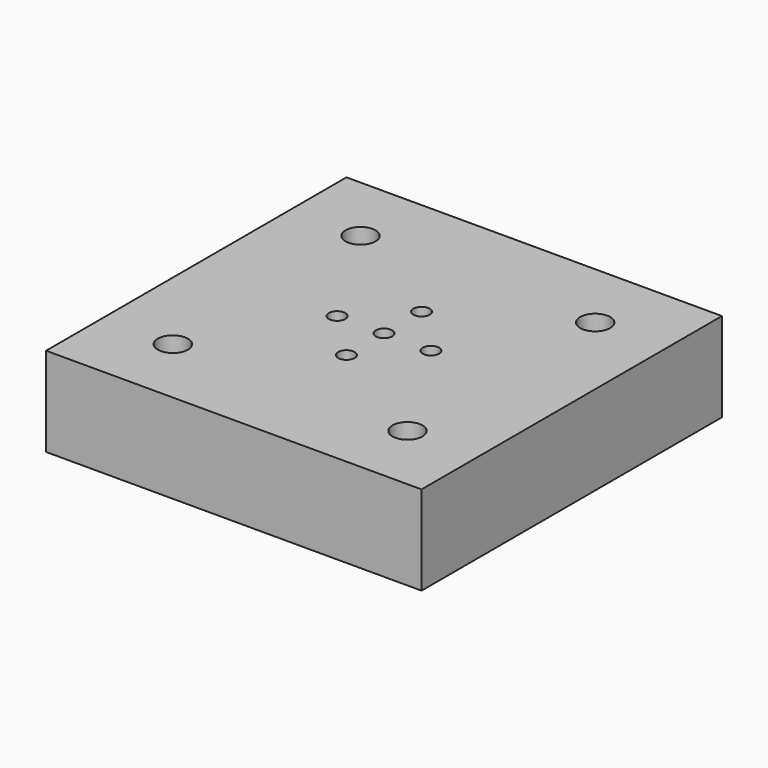
from build123d import *

# Parameters (mm, degrees)
F0_W           = 400
F0_H           = 400
F1_DEPTH       = 95
F3_D           = 17.5
F3_CBORE_D     = 26
F3_CBORE_DEPTH = 17
F5_D           = 21.5
F5_CBORE_D     = 32
F5_CBORE_DEPTH = 21


with BuildPart() as f1:
    # F0 (on Top) → F1 (new body)
    with BuildSketch(Plane.XY):
        Rectangle(F0_W, F0_H)
    extrude(amount=F1_DEPTH)

    # F3 (through all)
    with Locations(Plane(origin=(0, 0, 0), x_dir=(1, 0, 0), z_dir=(0, 0, -1))):
        with Locations((0, 0), (0, 50), (-50, 0), (0, -50), (50, 0)):
            CounterBoreHole(F3_D / 2, F3_CBORE_D / 2, F3_CBORE_DEPTH)

    # F5 (through all)
    with Locations(Plane.XY.offset(95)):
        with Locations((-125, 125), (125, 125), (-125, -125), (125, -125)):
            CounterBoreHole(F5_D / 2, F5_CBORE_D / 2, F5_CBORE_DEPTH)


solid = f1.part
